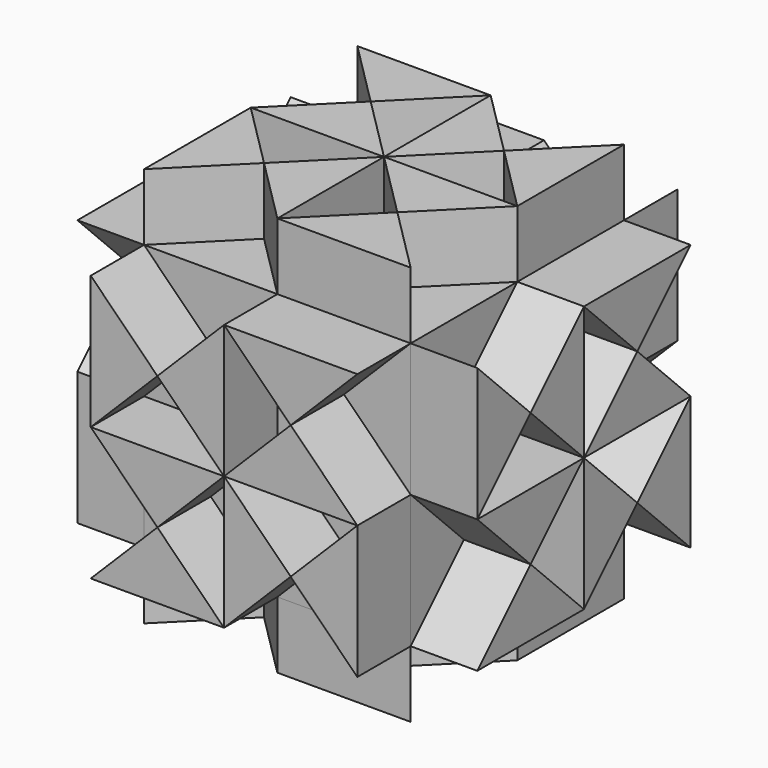
from build123d import *

# Parameters (mm, degrees)
F1_DEPTH  = 101.6
F7_DEPTH  = 25.4
F8_DEPTH  = 25.4
F9_DEPTH  = 25.4
F10_DEPTH = 25.4
F11_DEPTH = 25.4
F12_DEPTH = 25.4


with BuildPart() as f1:
    # F0 (on Front) → F1 (new body)
    with BuildSketch(Plane.XZ):
        Polygon((-23.1008625865, 32.5322173516), (-48.5008625865, 57.9322173516), (-48.5008625865, 7.1322173516), align=None)
        Polygon((2.2991374135, 57.9322173516), (-48.5008625865, 57.9322173516), (-23.1008625865, 32.5322173516), align=None)
        Polygon((27.6991374135, 32.5322173516), (2.2991374135, 57.9322173516), (2.2991374135, 7.1322173516), align=None)
        Polygon((2.2991374135, 7.1322173516), (2.2991374135, 57.9322173516), (-23.1008625865, 32.5322173516), align=None)
        Polygon((53.0991374135, 57.9322173516), (2.2991374135, 57.9322173516), (27.6991374135, 32.5322173516), align=None)
        Polygon((-23.1008625865, -18.2677826484), (-48.5008625865, 7.1322173516), (-48.5008625865, -43.6677826484), align=None)
        Polygon((-23.1008625865, 32.5322173516), (-48.5008625865, 7.1322173516), (2.2991374135, 7.1322173516), align=None)
        Polygon((2.2991374135, 7.1322173516), (-48.5008625865, 7.1322173516), (-23.1008625865, -18.2677826484), align=None)
        Polygon((53.0991374135, 7.1322173516), (53.0991374135, 57.9322173516), (27.6991374135, 32.5322173516), align=None)
        Polygon((53.0991374135, 7.1322173516), (2.2991374135, 7.1322173516), (27.6991374135, -18.2677826484), align=None)
        Polygon((2.2991374135, -43.6677826484), (2.2991374135, 7.1322173516), (-23.1008625865, -18.2677826484), align=None)
        Polygon((27.6991374135, -18.2677826484), (2.2991374135, 7.1322173516), (2.2991374135, -43.6677826484), align=None)
        Polygon((27.6991374135, 32.5322173516), (2.2991374135, 7.1322173516), (53.0991374135, 7.1322173516), align=None)
        Polygon((-23.1008625865, -18.2677826484), (-48.5008625865, -43.6677826484), (2.2991374135, -43.6677826484), align=None)
        Polygon((53.0991374135, -43.6677826484), (53.0991374135, 7.1322173516), (27.6991374135, -18.2677826484), align=None)
        Polygon((53.0991374135, -43.6677826484), (27.6991374135, -18.2677826484), (2.2991374135, -43.6677826484), align=None)
    extrude(amount=-F1_DEPTH)


with BuildPart() as f7:
    # F0 (on Front) → F7 (new body)
    with BuildSketch(Plane.XZ):
        Polygon((-23.1008625865, 32.5322173516), (-48.5008625865, 57.9322173516), (-48.5008625865, 7.1322173516), align=None)
    extrude(amount=F7_DEPTH)


with BuildPart() as f7b:
    # F0 (on Front) → F7, piece 2 (new body)
    with BuildSketch(Plane.XZ):
        Polygon((2.2991374135, 7.1322173516), (2.2991374135, 57.9322173516), (-23.1008625865, 32.5322173516), align=None)
    extrude(amount=F7_DEPTH)


with BuildPart() as f7c:
    # F0 (on Front) → F7, piece 3 (new body)
    with BuildSketch(Plane.XZ):
        Polygon((53.0991374135, 57.9322173516), (2.2991374135, 57.9322173516), (27.6991374135, 32.5322173516), align=None)
    extrude(amount=F7_DEPTH)


with BuildPart() as f7d:
    # F0 (on Front) → F7, piece 4 (new body)
    with BuildSketch(Plane.XZ):
        Polygon((27.6991374135, 32.5322173516), (2.2991374135, 7.1322173516), (53.0991374135, 7.1322173516), align=None)
    extrude(amount=F7_DEPTH)


with BuildPart() as f7e:
    # F0 (on Front) → F7, piece 5 (new body)
    with BuildSketch(Plane.XZ):
        Polygon((27.6991374135, -18.2677826484), (2.2991374135, 7.1322173516), (2.2991374135, -43.6677826484), align=None)
    extrude(amount=F7_DEPTH)


with BuildPart() as f7f:
    # F0 (on Front) → F7, piece 6 (new body)
    with BuildSketch(Plane.XZ):
        Polygon((53.0991374135, -43.6677826484), (53.0991374135, 7.1322173516), (27.6991374135, -18.2677826484), align=None)
    extrude(amount=F7_DEPTH)


with BuildPart() as f7g:
    # F0 (on Front) → F7, piece 7 (new body)
    with BuildSketch(Plane.XZ):
        Polygon((2.2991374135, 7.1322173516), (-48.5008625865, 7.1322173516), (-23.1008625865, -18.2677826484), align=None)
    extrude(amount=F7_DEPTH)


with BuildPart() as f7h:
    # F0 (on Front) → F7, piece 8 (new body)
    with BuildSketch(Plane.XZ):
        Polygon((-23.1008625865, -18.2677826484), (-48.5008625865, -43.6677826484), (2.2991374135, -43.6677826484), align=None)
    extrude(amount=F7_DEPTH)


with BuildPart() as f8:
    # F2 (on face) → F8 (new body)
    with BuildSketch(Plane.YZ.offset(53.0991374135)):
        Polygon((25.4, 32.5322173516), (0, 57.9322173516), (0, 7.1322173516), align=None)
    extrude(amount=F8_DEPTH)


with BuildPart() as f8b:
    # F2 (on face) → F8, piece 2 (new body)
    with BuildSketch(Plane.YZ.offset(53.0991374135)):
        Polygon((50.8, 57.9322173516), (25.4, 32.5322173516), (50.8, 7.1322173516), align=None)
    extrude(amount=F8_DEPTH)


with BuildPart() as f8c:
    # F2 (on face) → F8, piece 3 (new body)
    with BuildSketch(Plane.YZ.offset(53.0991374135)):
        Polygon((101.6, 57.9322173516), (50.8, 57.9322173516), (76.2, 32.5322173516), align=None)
    extrude(amount=F8_DEPTH)


with BuildPart() as f8d:
    # F2 (on face) → F8, piece 4 (new body)
    with BuildSketch(Plane.YZ.offset(53.0991374135)):
        Polygon((76.2, 32.5322173516), (50.8, 7.1322173516), (101.6, 7.1322173516), align=None)
    extrude(amount=F8_DEPTH)


with BuildPart() as f8e:
    # F2 (on face) → F8, piece 5 (new body)
    with BuildSketch(Plane.YZ.offset(53.0991374135)):
        Polygon((101.6, 7.1322173516), (76.2, -18.2677826484), (101.6, -43.6677826484), align=None)
    extrude(amount=F8_DEPTH)


with BuildPart() as f8f:
    # F2 (on face) → F8, piece 6 (new body)
    with BuildSketch(Plane.YZ.offset(53.0991374135)):
        Polygon((76.2, -18.2677826484), (50.8, 7.1322173516), (50.8, -43.6677826484), align=None)
    extrude(amount=F8_DEPTH)


with BuildPart() as f8g:
    # F2 (on face) → F8, piece 7 (new body)
    with BuildSketch(Plane.YZ.offset(53.0991374135)):
        Polygon((50.8, 7.1322173516), (0, 7.1322173516), (25.4, -18.2677826484), align=None)
    extrude(amount=F8_DEPTH)


with BuildPart() as f8h:
    # F2 (on face) → F8, piece 8 (new body)
    with BuildSketch(Plane.YZ.offset(53.0991374135)):
        Polygon((50.8, -43.6677826484), (25.4, -18.2677826484), (0, -43.6677826484), align=None)
    extrude(amount=F8_DEPTH)


with BuildPart() as f9:
    # F4 (on face) → F9 (new body)
    with BuildSketch(Plane(origin=(-48.5008625865, 0, 0), x_dir=(0, -1, 0), z_dir=(-1, 0, 0))):
        Polygon((0, 57.9322173516), (-50.8, 57.9322173516), (-25.4, 32.5322173516), align=None)
    extrude(amount=F9_DEPTH)


with BuildPart() as f9b:
    # F4 (on face) → F9, piece 2 (new body)
    with BuildSketch(Plane(origin=(-48.5008625865, 0, 0), x_dir=(0, -1, 0), z_dir=(-1, 0, 0))):
        Polygon((-25.4, 32.5322173516), (-50.8, 7.1322173516), (0, 7.1322173516), align=None)
    extrude(amount=F9_DEPTH)


with BuildPart() as f9c:
    # F4 (on face) → F9, piece 3 (new body)
    with BuildSketch(Plane(origin=(-48.5008625865, 0, 0), x_dir=(0, -1, 0), z_dir=(-1, 0, 0))):
        Polygon((-25.4, -18.2677826484), (-50.8, 7.1322173516), (-50.8, -43.6677826484), align=None)
    extrude(amount=F9_DEPTH)


with BuildPart() as f9d:
    # F4 (on face) → F9, piece 4 (new body)
    with BuildSketch(Plane(origin=(-48.5008625865, 0, 0), x_dir=(0, -1, 0), z_dir=(-1, 0, 0))):
        Polygon((0, 7.1322173516), (-25.4, -18.2677826484), (0, -43.6677826484), align=None)
    extrude(amount=F9_DEPTH)


with BuildPart() as f9e:
    # F4 (on face) → F9, piece 5 (new body)
    with BuildSketch(Plane(origin=(-48.5008625865, 0, 0), x_dir=(0, -1, 0), z_dir=(-1, 0, 0))):
        Polygon((-50.8, 7.1322173516), (-101.6, 7.1322173516), (-76.2, -18.2677826484), align=None)
    extrude(amount=F9_DEPTH)


with BuildPart() as f9f:
    # F4 (on face) → F9, piece 6 (new body)
    with BuildSketch(Plane(origin=(-48.5008625865, 0, 0), x_dir=(0, -1, 0), z_dir=(-1, 0, 0))):
        Polygon((-50.8, -43.6677826484), (-76.2, -18.2677826484), (-101.6, -43.6677826484), align=None)
    extrude(amount=F9_DEPTH)


with BuildPart() as f9g:
    # F4 (on face) → F9, piece 7 (new body)
    with BuildSketch(Plane(origin=(-48.5008625865, 0, 0), x_dir=(0, -1, 0), z_dir=(-1, 0, 0))):
        Polygon((-76.2, 32.5322173516), (-101.6, 57.9322173516), (-101.6, 7.1322173516), align=None)
    extrude(amount=F9_DEPTH)


with BuildPart() as f9h:
    # F4 (on face) → F9, piece 8 (new body)
    with BuildSketch(Plane(origin=(-48.5008625865, 0, 0), x_dir=(0, -1, 0), z_dir=(-1, 0, 0))):
        Polygon((-50.8, 57.9322173516), (-76.2, 32.5322173516), (-50.8, 7.1322173516), align=None)
    extrude(amount=F9_DEPTH)


with BuildPart() as f10:
    # F5 (on face) → F10 (new body)
    with BuildSketch(Plane(origin=(0, 101.6, 0), x_dir=(-1, 0, 0), z_dir=(0, 1, 0))):
        Polygon((48.5008625865, 57.9322173516), (-2.2991374135, 57.9322173516), (23.1008625865, 32.5322173516), align=None)
    extrude(amount=F10_DEPTH)


with BuildPart() as f10b:
    # F5 (on face) → F10, piece 2 (new body)
    with BuildSketch(Plane(origin=(0, 101.6, 0), x_dir=(-1, 0, 0), z_dir=(0, 1, 0))):
        Polygon((23.1008625865, 32.5322173516), (-2.2991374135, 7.1322173516), (48.5008625865, 7.1322173516), align=None)
    extrude(amount=F10_DEPTH)


with BuildPart() as f10c:
    # F5 (on face) → F10, piece 3 (new body)
    with BuildSketch(Plane(origin=(0, 101.6, 0), x_dir=(-1, 0, 0), z_dir=(0, 1, 0))):
        Polygon((23.1008625865, -18.2677826484), (-2.2991374135, 7.1322173516), (-2.2991374135, -43.6677826484), align=None)
    extrude(amount=F10_DEPTH)


with BuildPart() as f10d:
    # F5 (on face) → F10, piece 4 (new body)
    with BuildSketch(Plane(origin=(0, 101.6, 0), x_dir=(-1, 0, 0), z_dir=(0, 1, 0))):
        Polygon((48.5008625865, 7.1322173516), (23.1008625865, -18.2677826484), (48.5008625865, -43.6677826484), align=None)
    extrude(amount=F10_DEPTH)


with BuildPart() as f10e:
    # F5 (on face) → F10, piece 5 (new body)
    with BuildSketch(Plane(origin=(0, 101.6, 0), x_dir=(-1, 0, 0), z_dir=(0, 1, 0))):
        Polygon((-2.2991374135, 7.1322173516), (-53.0991374135, 7.1322173516), (-27.6991374135, -18.2677826484), align=None)
    extrude(amount=F10_DEPTH)


with BuildPart() as f10f:
    # F5 (on face) → F10, piece 6 (new body)
    with BuildSketch(Plane(origin=(0, 101.6, 0), x_dir=(-1, 0, 0), z_dir=(0, 1, 0))):
        Polygon((-2.2991374135, -43.6677826484), (-27.6991374135, -18.2677826484), (-53.0991374135, -43.6677826484), align=None)
    extrude(amount=F10_DEPTH)


with BuildPart() as f10g:
    # F5 (on face) → F10, piece 7 (new body)
    with BuildSketch(Plane(origin=(0, 101.6, 0), x_dir=(-1, 0, 0), z_dir=(0, 1, 0))):
        Polygon((-27.6991374135, 32.5322173516), (-53.0991374135, 57.9322173516), (-53.0991374135, 7.1322173516), align=None)
    extrude(amount=F10_DEPTH)


with BuildPart() as f10h:
    # F5 (on face) → F10, piece 8 (new body)
    with BuildSketch(Plane(origin=(0, 101.6, 0), x_dir=(-1, 0, 0), z_dir=(0, 1, 0))):
        Polygon((-2.2991374135, 57.9322173516), (-27.6991374135, 32.5322173516), (-2.2991374135, 7.1322173516), align=None)
    extrude(amount=F10_DEPTH)


with BuildPart() as f11:
    # F3 (on face) → F11 (new body)
    with BuildSketch(Plane.XY.offset(57.9322173516)):
        Polygon((-48.5008625865, 50.8), (-48.5008625865, 0), (-23.1008625865, 25.4), align=None)
    extrude(amount=F11_DEPTH)


with BuildPart() as f11b:
    # F3 (on face) → F11, piece 2 (new body)
    with BuildSketch(Plane.XY.offset(57.9322173516)):
        Polygon((2.2991374135, 50.8), (-23.1008625865, 25.4), (2.2991374135, 0), align=None)
    extrude(amount=F11_DEPTH)


with BuildPart() as f11c:
    # F3 (on face) → F11, piece 3 (new body)
    with BuildSketch(Plane.XY.offset(57.9322173516)):
        Polygon((53.0991374135, 50.8), (2.2991374135, 50.8), (27.6991374135, 25.4), align=None)
    extrude(amount=F11_DEPTH)


with BuildPart() as f11d:
    # F3 (on face) → F11, piece 4 (new body)
    with BuildSketch(Plane.XY.offset(57.9322173516)):
        Polygon((27.6991374135, 25.4), (2.2991374135, 0), (53.0991374135, 0), align=None)
    extrude(amount=F11_DEPTH)


with BuildPart() as f11e:
    # F3 (on face) → F11, piece 5 (new body)
    with BuildSketch(Plane.XY.offset(57.9322173516)):
        Polygon((2.2991374135, 101.6), (2.2991374135, 50.8), (27.6991374135, 76.2), align=None)
    extrude(amount=F11_DEPTH)


with BuildPart() as f11f:
    # F3 (on face) → F11, piece 6 (new body)
    with BuildSketch(Plane.XY.offset(57.9322173516)):
        Polygon((53.0991374135, 101.6), (27.6991374135, 76.2), (53.0991374135, 50.8), align=None)
    extrude(amount=F11_DEPTH)


with BuildPart() as f11g:
    # F3 (on face) → F11, piece 7 (new body)
    with BuildSketch(Plane.XY.offset(57.9322173516)):
        Polygon((-48.5008625865, 101.6), (-23.1008625865, 76.2), (2.2991374135, 101.6), align=None)
    extrude(amount=F11_DEPTH)


with BuildPart() as f11h:
    # F3 (on face) → F11, piece 8 (new body)
    with BuildSketch(Plane.XY.offset(57.9322173516)):
        Polygon((-23.1008625865, 76.2), (-48.5008625865, 50.8), (2.2991374135, 50.8), align=None)
    extrude(amount=F11_DEPTH)


with BuildPart() as f12:
    # F6 (on face) → F12 (new body)
    with BuildSketch(Plane(origin=(0, 0, -43.6677826484), x_dir=(1, 0, 0), z_dir=(0, 0, -1))):
        Polygon((-23.1008625865, -25.4), (-48.5008625865, 0), (-48.5008625865, -50.8), align=None)
    extrude(amount=F12_DEPTH)


with BuildPart() as f12b:
    # F6 (on face) → F12, piece 2 (new body)
    with BuildSketch(Plane(origin=(0, 0, -43.6677826484), x_dir=(1, 0, 0), z_dir=(0, 0, -1))):
        Polygon((2.2991374135, 0), (-23.1008625865, -25.4), (2.2991374135, -50.8), align=None)
    extrude(amount=F12_DEPTH)


with BuildPart() as f12c:
    # F6 (on face) → F12, piece 3 (new body)
    with BuildSketch(Plane(origin=(0, 0, -43.6677826484), x_dir=(1, 0, 0), z_dir=(0, 0, -1))):
        Polygon((53.0991374135, 0), (2.2991374135, 0), (27.6991374135, -25.4), align=None)
    extrude(amount=F12_DEPTH)


with BuildPart() as f12d:
    # F6 (on face) → F12, piece 4 (new body)
    with BuildSketch(Plane(origin=(0, 0, -43.6677826484), x_dir=(1, 0, 0), z_dir=(0, 0, -1))):
        Polygon((27.6991374135, -25.4), (2.2991374135, -50.8), (53.0991374135, -50.8), align=None)
    extrude(amount=F12_DEPTH)


with BuildPart() as f12e:
    # F6 (on face) → F12, piece 5 (new body)
    with BuildSketch(Plane(origin=(0, 0, -43.6677826484), x_dir=(1, 0, 0), z_dir=(0, 0, -1))):
        Polygon((27.6991374135, -76.2), (2.2991374135, -50.8), (2.2991374135, -101.6), align=None)
    extrude(amount=F12_DEPTH)


with BuildPart() as f12f:
    # F6 (on face) → F12, piece 6 (new body)
    with BuildSketch(Plane(origin=(0, 0, -43.6677826484), x_dir=(1, 0, 0), z_dir=(0, 0, -1))):
        Polygon((53.0991374135, -50.8), (27.6991374135, -76.2), (53.0991374135, -101.6), align=None)
    extrude(amount=F12_DEPTH)


with BuildPart() as f12g:
    # F6 (on face) → F12, piece 7 (new body)
    with BuildSketch(Plane(origin=(0, 0, -43.6677826484), x_dir=(1, 0, 0), z_dir=(0, 0, -1))):
        Polygon((2.2991374135, -50.8), (-48.5008625865, -50.8), (-23.1008625865, -76.2), align=None)
    extrude(amount=F12_DEPTH)


with BuildPart() as f12h:
    # F6 (on face) → F12, piece 8 (new body)
    with BuildSketch(Plane(origin=(0, 0, -43.6677826484), x_dir=(1, 0, 0), z_dir=(0, 0, -1))):
        Polygon((2.2991374135, -101.6), (-23.1008625865, -76.2), (-48.5008625865, -101.6), align=None)
    extrude(amount=F12_DEPTH)


solid = Compound([f1.part, f7.part, f7b.part, f7c.part, f7d.part, f7e.part, f7f.part, f7g.part, f7h.part, f8.part, f8b.part, f8c.part, f8d.part, f8e.part, f8f.part, f8g.part, f8h.part, f9.part, f9b.part, f9c.part, f9d.part, f9e.part, f9f.part, f9g.part, f9h.part, f10.part, f10b.part, f10c.part, f10d.part, f10e.part, f10f.part, f10g.part, f10h.part, f11.part, f11b.part, f11c.part, f11d.part, f11e.part, f11f.part, f11g.part, f11h.part, f12.part, f12b.part, f12c.part, f12d.part, f12e.part, f12f.part, f12g.part, f12h.part])
